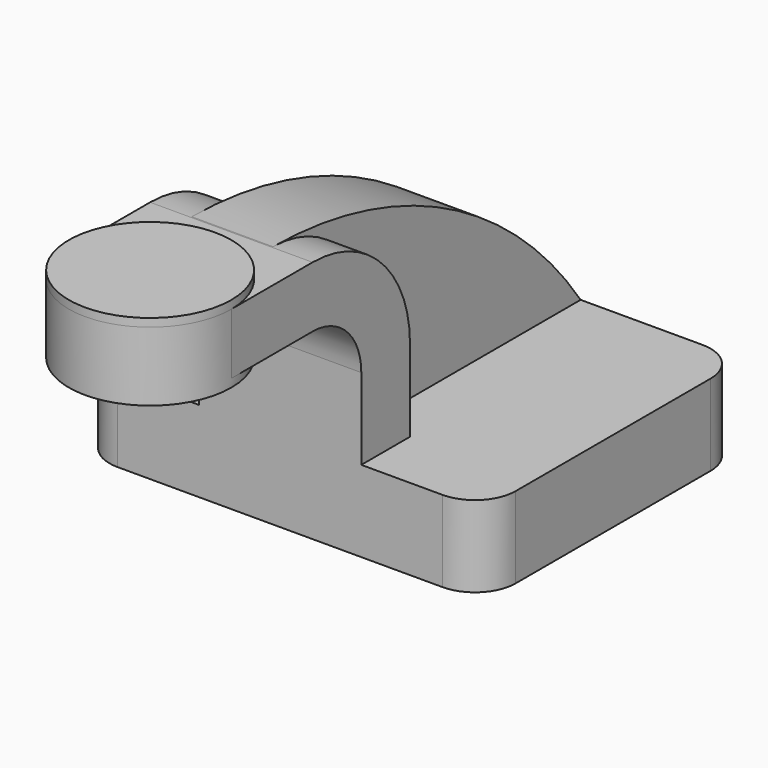
from build123d import *

# Parameters (mm, degrees)
F1_DEPTH      = 25.4
F1_DEPTH_BACK = 25.4
F2_DEPTH      = 63.5
F2_DEPTH_BACK = 63.5
F4_DEPTH      = 2.54
F4_DEPTH_BACK = 21.59
F6_DEPTH      = 12.7
F6_DEPTH_BACK = 12.7
F7_R          = 12.7


with BuildPart() as f1:
    # F0 (on Right) → F1 (new body, two sides)
    with BuildSketch(Plane.YZ) as f1_sk:
        with BuildLine():
            Line((-50.8, 38.1), (-50.8, 12.7))
            Line((-50.8, 12.7), (-31.75, 12.7))
            Line((-31.75, 12.7), (-31.75, 38.1))
            ThreePointArc((-31.75, 38.1), (-42.9092316368, 65.0407683632), (-69.85, 76.2))
            Line((-69.85, 76.2), (-101.6, 76.2))
            Line((-101.6, 76.2), (-101.6, 57.15))
            Line((-101.6, 57.15), (-69.85, 57.15))
            ThreePointArc((-69.85, 57.15), (-56.3796158184, 51.5703841816), (-50.8, 38.1))
        make_face()
    extrude(amount=F1_DEPTH)
    extrude(f1_sk.sketch, amount=-F1_DEPTH_BACK)

    # F0 (on Right) → F2 (join, two sides)
    with BuildSketch(Plane.YZ) as f2_sk:
        Polygon((-50.8, 12.7), (-50.8, -12.7), (50.8, -12.7), (50.8, 12.7), (-31.75, 12.7), align=None)
    extrude(amount=F2_DEPTH)
    extrude(f2_sk.sketch, amount=-F2_DEPTH_BACK)

    # F3 (on face) → F4 (join, two sides)
    with BuildSketch(Plane.XY.offset(76.2)) as f4_sk:
        with BuildLine():
            ThreePointArc((-25.4, -101.6), (0, -127), (25.4, -101.6))
            Line((25.4, -101.6), (-25.4, -101.6))
        make_face()
        with BuildLine():
            Line((-25.4, -101.6), (25.4, -101.6))
            ThreePointArc((25.4, -101.6), (0, -76.2), (-25.4, -101.6))
        make_face()
    extrude(amount=F4_DEPTH)
    extrude(f4_sk.sketch, amount=-F4_DEPTH_BACK)

    # F5 (on Right) → F6 (join, two sides)
    with BuildSketch(Plane.YZ) as f6_sk:
        with BuildLine():
            Line((-31.75, 12.7), (50.8, 12.7))
            ThreePointArc((50.8, 12.7), (-1.5601227987, 59.1215530154), (-69.4199238636, 76.1975725541))
            ThreePointArc((-69.4199238636, 76.1975725541), (-42.7576034578, 64.8882819457), (-31.75, 38.1))
            Line((-31.75, 38.1), (-31.75, 12.7))
        make_face()
    extrude(amount=F6_DEPTH)
    extrude(f6_sk.sketch, amount=-F6_DEPTH_BACK)

    # F7
    f7_edges = [f1.edges().sort_by_distance(p)[0] for p in [
        (-63.5, 50.8, 0),
        (-63.5, -50.8, 0),
        (63.5, -50.8, 0),
        (63.5, 50.8, 0),
    ]]
    fillet(f7_edges, radius=F7_R)


solid = f1.part
